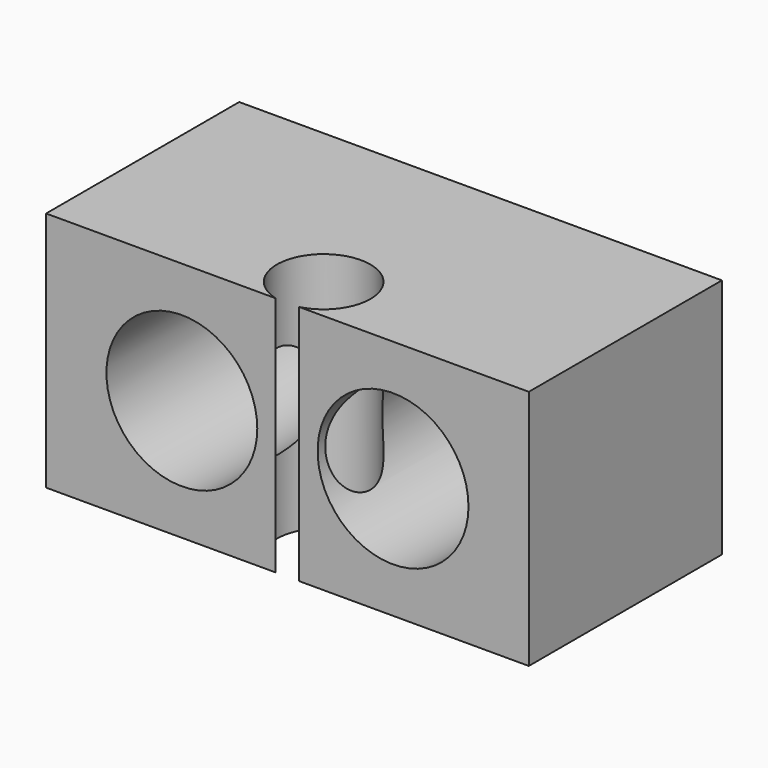
from build123d import *

# Parameters (mm, degrees)
F0_W     = 16
F0_H     = 8
F0_R     = 2.5
F1_DEPTH = 8
F3_DEPTH = 8.001


with BuildPart() as f1:
    # F0 (on Front) → F1 (new body)
    with BuildSketch(Plane.XZ):
        with Locations((4.0397070954, 5.7284952411)):
            Rectangle(F0_W, F0_H)
        with Locations((0.5397070954, 5.7284952411)):
            Circle(F0_R, mode=Mode.SUBTRACT)
        with Locations((7.5397070954, 5.7284952411)):
            Circle(F0_R, mode=Mode.SUBTRACT)
    extrude(amount=F1_DEPTH)

    # F2 (on face) → F3 (cut, through all)
    with BuildSketch(Plane.XY.offset(9.7284952411)):
        with BuildLine():
            ThreePointArc((4.4302195792, -8), (5.2660419497, -7.4479466362), (5.5897070954, -6.5))
            ThreePointArc((5.5897070954, -6.5), (3.0917604592, -5.2736651457), (3.6491946116, -8))
            Line((3.6491946116, -8), (4.4302195792, -8))
        make_face()
    extrude(amount=-F3_DEPTH, mode=Mode.SUBTRACT)


solid = f1.part
